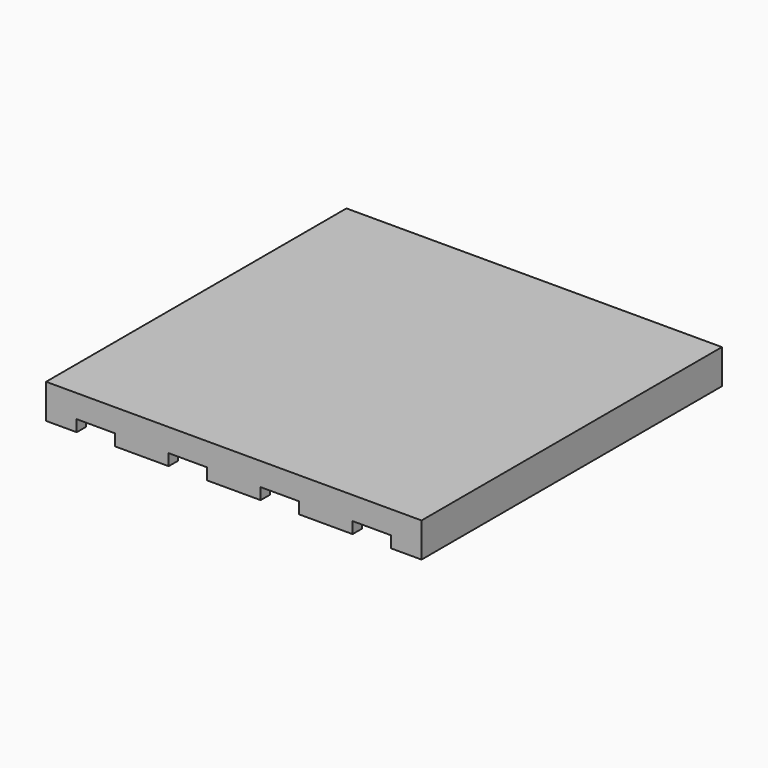
from build123d import *

# Parameters (mm, degrees)
BOX009_W         = 10
BOX009_H         = 112
BOX009_DEPTH     = 10
ARRAY_X_COUNT    = 4
ARRAY_X_PITCH    = 24
BOX008_W         = 20
BOX008_H         = 20
BOX008_DEPTH     = 8
FILLET_R         = 2
FILLET001_R      = 1
ARRAY003_X_COUNT = 4
ARRAY003_X_PITCH = 24
ARRAY003_Y_COUNT = 4
ARRAY003_Y_PITCH = 24
BOX_W            = 98
BOX_H            = 98
BOX_DEPTH        = 9


with BuildPart() as array:
    # Box009 → Box009 (new body)
    with BuildSketch(Plane(origin=(5, -4, 0), x_dir=(1, 0, 0), z_dir=(0, 0, 1))):
        with Locations((5, 56)):
            Rectangle(BOX009_W, BOX009_H)
    extrude(amount=BOX009_DEPTH)

    # Array X: Array ×4


with BuildPart() as array_1:
    add(array.part)
    with Locations(*[(i * ARRAY_X_PITCH, 0, 0) for i in range(1, ARRAY_X_COUNT)]):
        add(array.part)


with BuildPart() as silicone_pads:
    # Box008 → Box008 (new body)
    with BuildSketch(Plane.XY.offset(7)):
        with Locations((10, 10)):
            Rectangle(BOX008_W, BOX008_H)
    extrude(amount=BOX008_DEPTH)

    # Fillet
    fillet_edges = [silicone_pads.edges().sort_by_distance(p)[0] for p in [
        (0, 0, 11),
        (0, 20, 11),
        (20, 0, 11),
        (20, 20, 11),
    ]]
    fillet(fillet_edges, radius=FILLET_R)

    # Fillet001
    fillet001_edges = [silicone_pads.edges().sort_by_distance(p)[0] for p in [
        (0, 10, 15),
        (0.585786, 0.585786, 15),
        (0.585786, 19.414214, 15),
        (10, 0, 15),
        (10, 20, 15),
        (19.414214, 0.585786, 15),
        (19.414214, 19.414214, 15),
        (20, 10, 15),
    ]]
    fillet(fillet001_edges, radius=FILLET001_R)

    # Array003 X: silicone_pads ×4


with BuildPart() as silicone_pads_1:
    add(silicone_pads.part)
    with Locations(*[(i * ARRAY003_X_PITCH, 0, 0) for i in range(1, ARRAY003_X_COUNT)]):
        add(silicone_pads.part)

    # Array003 Y: silicone_pads ×4


with BuildPart() as silicone_pads_2:
    add(silicone_pads_1.part)
    with Locations(*[(0, i * ARRAY003_Y_PITCH, 0) for i in range(1, ARRAY003_Y_COUNT)]):
        add(silicone_pads_1.part)


with BuildPart() as parametric_mold:
    # Box → Box (new body)
    with BuildSketch(Plane(origin=(-3, -3, 7), x_dir=(1, 0, 0), z_dir=(0, 0, 1))):
        with Locations((49, 49)):
            Rectangle(BOX_W, BOX_H)
    extrude(amount=BOX_DEPTH)

    # Cut: cut silicone_pads
    add(silicone_pads_2.part, mode=Mode.SUBTRACT)

    # Cut001: cut Array
    add(array_1.part, mode=Mode.SUBTRACT)


solid = parametric_mold.part
